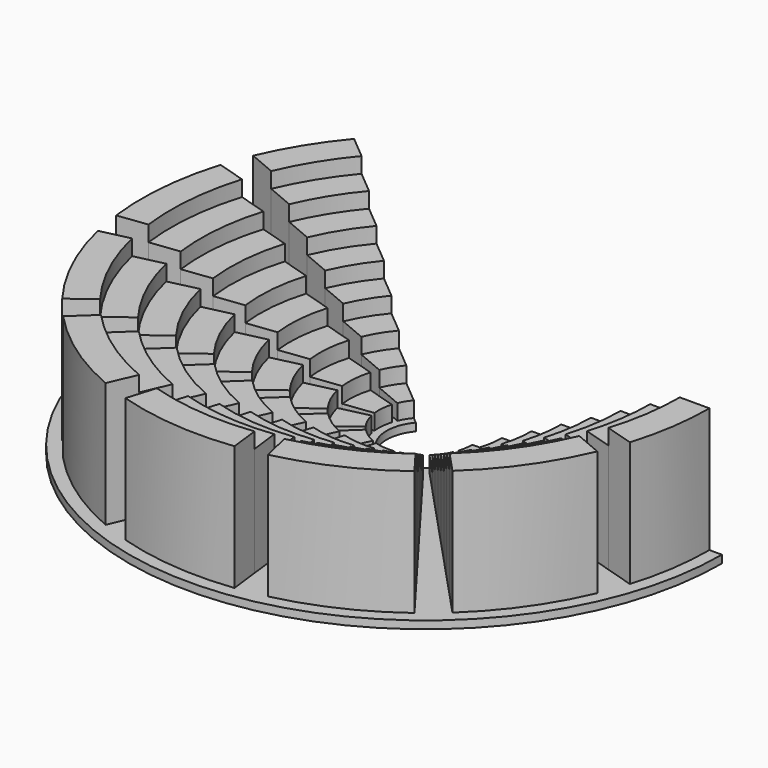
from build123d import *

# Parameters (mm, degrees)
F0_W      = 19
F0_H      = 0.5
F1_ANGLE  = 220
F4_R      = 2.5
F5_DEPTH  = 25
F6_DEPTH  = 1
F7_DEPTH  = 2
F8_DEPTH  = 3
F9_DEPTH  = 4
F10_DEPTH = 5
F11_DEPTH = 6
F12_DEPTH = 7
F13_DEPTH = 8
F15_DEPTH = 25


with BuildPart() as f1:
    # F0 (on Front) → F1 (revolve)
    with BuildSketch(Plane.XZ):
        with Locations((9.5, -0.25)):
            Rectangle(F0_W, F0_H)
    revolve(axis=Axis((0, 0, -0.25), (0, 0, -1)), revolution_arc=F1_ANGLE)

    # F4 (on Top) → F5 (cut)
    with BuildSketch(Plane.XY):
        Circle(F4_R)
    extrude(amount=-F5_DEPTH, mode=Mode.SUBTRACT)

    # F3 (on Top) → F6 (join)
    with BuildSketch(Plane.XY):
        with BuildLine():
            ThreePointArc((3, 0), (-1.02606, -2.819078), (-2.298133, 1.928363))
            Line((-2.298133, 1.928363), (-3.753618, 3.149659))
            ThreePointArc((-3.753618, 3.149659), (-1.675899, -4.604494), (4.9, 0))
            Line((4.9, 0), (3, 0))
        make_face()
        with BuildLine():
            ThreePointArc((3, 0), (-1.02606, -2.819078), (-2.298133, 1.928363))
            Line((-2.298133, 1.928363), (-3.753618, 3.149659))
            ThreePointArc((-3.753618, 3.149659), (-1.675899, -4.604494), (4.9, 0))
            Line((4.9, 0), (3, 0))
        make_face()
    extrude(amount=F6_DEPTH)


with BuildPart() as f7:
    # F3 (on Top) → F7 (new body)
    with BuildSketch(Plane.XY):
        with BuildLine():
            ThreePointArc((4.9, 0), (-1.675899, -4.604494), (-3.753618, 3.149659))
            Line((-3.753618, 3.149659), (-5.209102, 4.370956))
            ThreePointArc((-5.209102, 4.370956), (-2.325737, -6.38991), (6.8, 0))
            Line((6.8, 0), (4.9, 0))
        make_face()
    extrude(amount=F7_DEPTH)


with BuildPart() as f8:
    # F3 (on Top) → F8 (new body)
    with BuildSketch(Plane.XY):
        with BuildLine():
            ThreePointArc((6.8, 0), (-2.325737, -6.38991), (-5.209102, 4.370956))
            Line((-5.209102, 4.370956), (-6.664587, 5.592252))
            ThreePointArc((-6.664587, 5.592252), (-2.975575, -8.175326), (8.7, 0))
            Line((8.7, 0), (6.8, 0))
        make_face()
    extrude(amount=F8_DEPTH)


with BuildPart() as f9:
    # F3 (on Top) → F9 (new body)
    with BuildSketch(Plane.XY):
        with BuildLine():
            ThreePointArc((8.7, 0), (-2.975575, -8.175326), (-6.664587, 5.592252))
            Line((-6.664587, 5.592252), (-8.120071, 6.813549))
            ThreePointArc((-8.120071, 6.813549), (-3.625414, -9.960742), (10.6, 0))
            Line((10.6, 0), (8.7, 0))
        make_face()
    extrude(amount=F9_DEPTH)


with BuildPart() as f10:
    # F3 (on Top) → F10 (new body)
    with BuildSketch(Plane.XY):
        with BuildLine():
            ThreePointArc((10.6, 0), (-3.625414, -9.960742), (-8.120071, 6.813549))
            Line((-8.120071, 6.813549), (-9.575556, 8.034845))
            ThreePointArc((-9.575556, 8.034845), (-4.275252, -11.746158), (12.5, 0))
            Line((12.5, 0), (10.6, 0))
        make_face()
    extrude(amount=F10_DEPTH)


with BuildPart() as f11:
    # F3 (on Top) → F11 (new body)
    with BuildSketch(Plane.XY):
        with BuildLine():
            ThreePointArc((12.5, 0), (-4.275252, -11.746158), (-9.575556, 8.034845))
            Line((-9.575556, 8.034845), (-11.03104, 9.256142))
            ThreePointArc((-11.03104, 9.256142), (-4.92509, -13.531574), (14.4, 0))
            Line((14.4, 0), (12.5, 0))
        make_face()
    extrude(amount=F11_DEPTH)


with BuildPart() as f12:
    # F3 (on Top) → F12 (new body)
    with BuildSketch(Plane.XY):
        with BuildLine():
            ThreePointArc((14.4, 0), (-4.92509, -13.531574), (-11.03104, 9.256142))
            Line((-11.03104, 9.256142), (-12.486524, 10.477438))
            ThreePointArc((-12.486524, 10.477438), (-5.574928, -15.31699), (16.3, 0))
            Line((16.3, 0), (14.4, 0))
        make_face()
    extrude(amount=F12_DEPTH)


with BuildPart() as f13:
    # F3 (on Top) → F13 (new body)
    with BuildSketch(Plane.XY):
        with BuildLine():
            ThreePointArc((16.3, 0), (-5.574928, -15.31699), (-12.486524, 10.477438))
            Line((-12.486524, 10.477438), (-13.942009, 11.698734))
            ThreePointArc((-13.942009, 11.698734), (-6.224767, -17.102406), (18.2, 0))
            Line((18.2, 0), (16.3, 0))
        make_face()
    extrude(amount=F13_DEPTH)


with BuildPart() as f15_tool:
    # F14 (on Top) → F15 (new body)
    with BuildSketch(Plane.XY):
        Polygon((-0.000813, -0.002661), (0, 0), (-0.001147, -0.002702), align=None)
        Polygon((0.001363, 0.003746), (0, 0), (-0.000813, -0.002661), (0.007516, -0.001638), (0.010822, 0.000854), align=None)
        Polygon((-19.078924, 5.837175), (0.001363, 0.003746), (0.003078, 0.008457), (-18.362925, 7.804363), align=None)
        Polygon((-0.002939, -0.006925), (-0.001147, -0.002702), (-19.816827, -2.435761), (-19.453305, -4.497395), align=None)
        Polygon((0.007662, 0.02105), (0.003078, 0.008457), (0.014486, 0.003615), (0.01683, 0.005381), (0.014796, 0.003483), (0.02252, 0.000204), (0.02663, 0.000709), align=None)
        Polygon((-0.002055, -0.00672), (-0.002939, -0.006925), (-0.004557, -0.010736), (-0.002901, -0.009488), align=None)
        Polygon((-13.587415, 14.599984), (0.007662, 0.02105), (0.010467, 0.028759), (-11.983748, 15.94562), align=None)
        Polygon((-0.007246, -0.017071), (-0.004557, -0.010736), (-0.011259, -0.015786), (-0.010304, -0.019923), align=None)
        Polygon((0.023592, 0.064819), (0.010467, 0.028759), (0.031183, 0.001268), (0.034096, 0.001626), (0.031385, 0.001), (0.036436, -0.005702), (0.040247, -0.00732), align=None)
        Polygon((-0.011527, -0.015988), (-0.011259, -0.015786), (-0.011885, -0.013075), align=None)
        Polygon((-4.450224, 19.443045), (0.023592, 0.064819), (0.032416, 0.089061), (-2.38859, 19.806567), align=None)
        Polygon((-0.010464, -0.024651), (-0.009653, -0.022742), (-0.010304, -0.019923), (-0.010968, -0.020542), align=None)
        Polygon((-0.010968, -0.020542), (-0.011527, -0.015988), (-15.95588, -12.03092), (-14.610244, -13.634586), align=None)
        Polygon((0.340416, 0.935285), (0.032416, 0.089061), (0.04447, -0.009113), (0.047172, -0.010259), (0.044511, -0.009446), (0.045534, -0.017775), (0.048025, -0.021082), align=None)
        Polygon((-0.009625, -0.031482), (-0.010464, -0.024651), (-0.013743, -0.032376), (-0.010848, -0.035481), align=None)
        Polygon((5.884346, 19.068664), (0.340416, 0.935285), (0.048025, -0.021082), (0.050786, -0.024746), (7.851535, 18.352666), align=None)
        Polygon((-0.013874, -0.032685), (-0.013743, -0.032376), (-0.01564, -0.030341), align=None)
        Polygon((-0.008874, -0.037597), (-0.010848, -0.035481), (-0.011113, -0.036349), (-0.008621, -0.039656), align=None)
        Polygon((-0.003539, -0.049226), (-0.00448, -0.045152), (-0.008621, -0.039656), (-0.007599, -0.047985), align=None)
        Polygon((-0.011113, -0.036349), (-0.013874, -0.032685), (-7.814623, -18.410097), (-5.847434, -19.126095), align=None)
        Polygon((-0.000772, -0.050072), (-0.003539, -0.049226), (-0.003335, -0.050111), (0.000476, -0.051729), align=None)
        Polygon((0.009663, -0.057476), (0.006811, -0.054418), (0.000476, -0.051729), (0.005527, -0.058431), align=None)
        Polygon((0.050655, -0.025055), (0.04776, -0.02195), (0.046537, -0.025949), (0.047376, -0.03278), align=None)
        Polygon((0.052552, -0.02709), (0.050786, -0.024746), (0.050655, -0.025055), align=None)
        Polygon((0.047376, -0.03278), (0.046566, -0.034689), (0.047216, -0.037508), (0.04788, -0.036889), align=None)
        Polygon((-0.007558, -0.048318), (-0.007599, -0.047985), (-0.010259, -0.047172), align=None)
        Polygon((4.487136, -19.500476), (-0.003335, -0.050111), (-0.007558, -0.048318), (2.425502, -19.863998), align=None)
        Polygon((0.012482, -0.056825), (0.009663, -0.057476), (0.010282, -0.05814), (0.014392, -0.057635), align=None)
        Polygon((0.025221, -0.058019), (0.021223, -0.056797), (0.014392, -0.057635), (0.022117, -0.060914), align=None)
        Polygon((0.047216, -0.037508), (0.044158, -0.04036), (0.041469, -0.046695), (0.048171, -0.041645), align=None)
        Polygon((0.041469, -0.046695), (0.039813, -0.047944), (0.038967, -0.050711), (0.039852, -0.050506), align=None)
        Polygon((0.005729, -0.058699), (0.005527, -0.058431), (0.002816, -0.059057), align=None)
        Polygon((13.624327, -14.657415), (0.010282, -0.05814), (0.005729, -0.058699), (12.02066, -16.003051), align=None)
        Polygon((0.027338, -0.056046), (0.025221, -0.058019), (0.02609, -0.058285), (0.029396, -0.055793), align=None)
        Polygon((0.038967, -0.050711), (0.034893, -0.051651), (0.029396, -0.055793), (0.037726, -0.05477), align=None)
        Polygon((14.647156, 13.577155), (0.04788, -0.036889), (0.04844, -0.041443), (15.992792, 11.973489), align=None)
        Polygon((0.04844, -0.041443), (0.048171, -0.041645), (0.048797, -0.044356), align=None)
        Polygon((0.022426, -0.061046), (0.022117, -0.060914), (0.020082, -0.062812), align=None)
        Polygon((19.115836, -5.894606), (0.02609, -0.058285), (0.022426, -0.061046), (18.399838, -7.861794), align=None)
        Polygon((19.490217, 4.439964), (0.039852, -0.050506), (0.038059, -0.054729), (19.853739, 2.37833), align=None)
        Polygon((0.038059, -0.054729), (0.037726, -0.05477), (0.036912, -0.057431), align=None)
    extrude(amount=F15_DEPTH)


with BuildPart() as f1_1:
    add(f1.part)

    # F15: cut by f15_tool
    add(f15_tool.part, mode=Mode.SUBTRACT)


with BuildPart() as f7_1:
    add(f7.part)

    # F15: cut by f15_tool
    add(f15_tool.part, mode=Mode.SUBTRACT)


with BuildPart() as f8_1:
    add(f8.part)

    # F15: cut by f15_tool
    add(f15_tool.part, mode=Mode.SUBTRACT)


with BuildPart() as f9_1:
    add(f9.part)

    # F15: cut by f15_tool
    add(f15_tool.part, mode=Mode.SUBTRACT)


with BuildPart() as f10_1:
    add(f10.part)

    # F15: cut by f15_tool
    add(f15_tool.part, mode=Mode.SUBTRACT)


with BuildPart() as f11_1:
    add(f11.part)

    # F15: cut by f15_tool
    add(f15_tool.part, mode=Mode.SUBTRACT)


with BuildPart() as f12_1:
    add(f12.part)

    # F15: cut by f15_tool
    add(f15_tool.part, mode=Mode.SUBTRACT)


with BuildPart() as f13_1:
    add(f13.part)

    # F15: cut by f15_tool
    add(f15_tool.part, mode=Mode.SUBTRACT)


solid = Compound([f1_1.part, f7_1.part, f8_1.part, f9_1.part, f10_1.part, f11_1.part, f12_1.part, f13_1.part])
